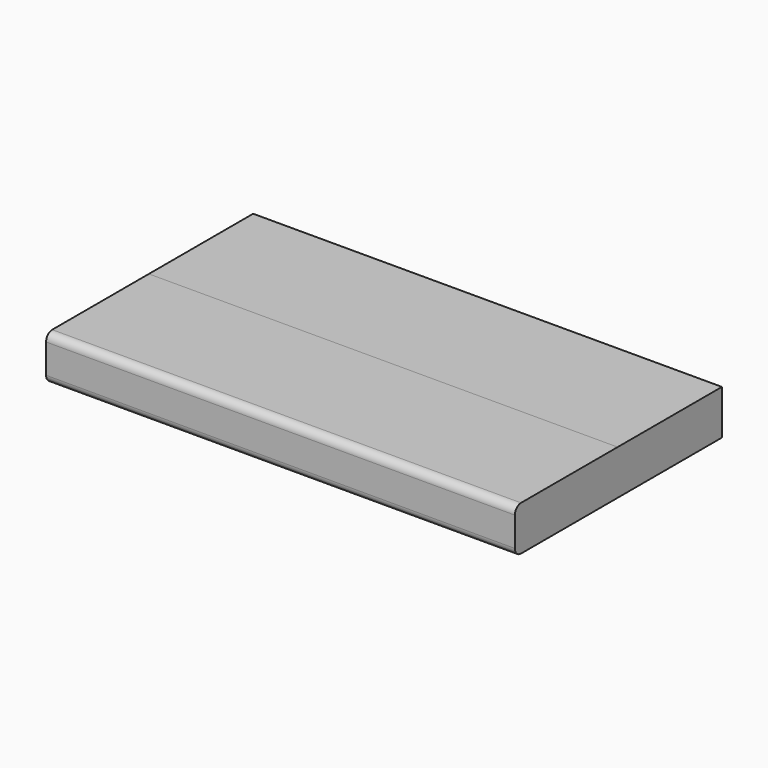
from build123d import *

# Parameters (mm, degrees)
F0_W      = 310.527966
F0_H      = 29.582629
F1_DEPTH  = 85.09
F1_FACE_W = 310.527966
F1_FACE_H = 29.582628
F2_DEPTH  = 86.36
F3_R      = 5.08
F4_R      = 5.08


with BuildPart() as f1:
    # F0 (on Front) → F1 (new body)
    with BuildSketch(Plane.XZ):
        with Locations((-1.120977, 14.791314)):
            Rectangle(F0_W, F0_H)
    extrude(amount=F1_DEPTH)

    # F1_face (on face) → F2 (join)
    with BuildSketch(Plane(origin=(-1.120977, 0, 14.791314), x_dir=(1, 0, 0), z_dir=(0, 1, 0))):
        Rectangle(F1_FACE_W, F1_FACE_H)
    extrude(amount=F2_DEPTH)

    # F3
    f3_edges = [f1.edges().sort_by_distance(p)[0] for p in [
        (-1.120977, -85.09, 29.582629),
    ]]
    fillet(f3_edges, radius=F3_R)

    # F4
    f4_edges = [f1.edges().sort_by_distance(p)[0] for p in [
        (-1.120977, -85.09, 0),
    ]]
    fillet(f4_edges, radius=F4_R)


solid = f1.part
